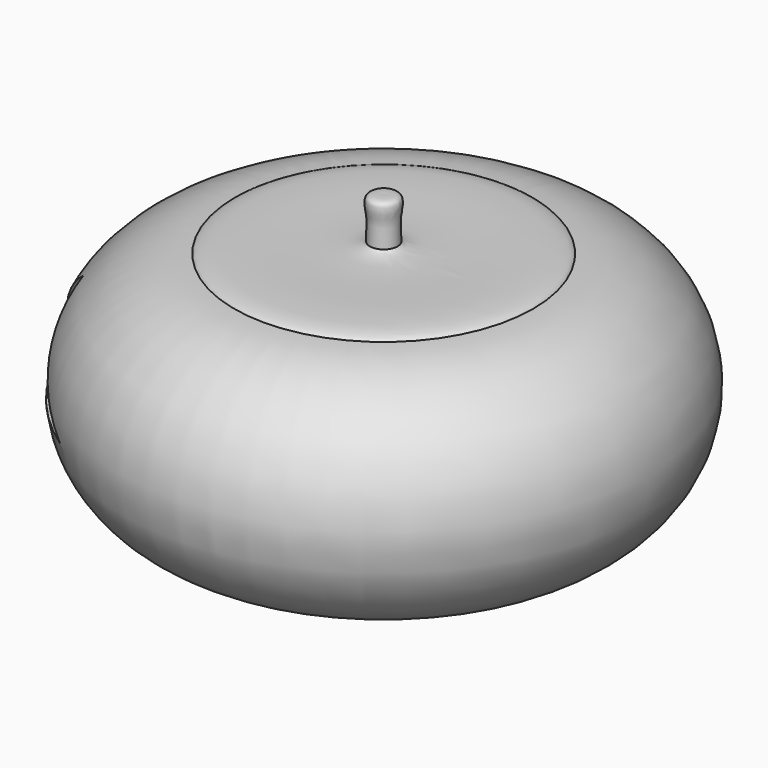
from build123d import *

# Parameters (mm, degrees)
F3_DEPTH = 127
F5_DEPTH = 50.8


with BuildPart() as f1:
    # F0 (on Front) → F1 (revolve)
    with BuildSketch(Plane.XZ):
        with BuildLine():
            Line((0, 50.2139851451), (0, 0))
            Line((0, 0), (26.6106016934, 0))
            ThreePointArc((26.6106016934, 0), (47.0614731312, 20.4508714378), (26.6106016934, 40.9017428756))
            add(Edge.make_bspline(
                [(26.6106016934, 40.9017428756), (25.0362083316, 43.3508008718), (4.0366263129, 40.3783917427), (2.4622329511, 42.827449739)],
                knots=[0, 0, 0, 0, 24.2250296148, 24.2250296148, 24.2250296148, 24.2250296148], degree=3))
            add(Edge.make_bspline(
                [(2.4622329511, 42.827449739), (2.3834565669, 44.1874180439), (2.2387711309, 46.6852174669), (3.1683927039, 50.3577171038), (1.0311299141, 50.2607616454), (0, 50.2139851451)],
                knots=[0, 0, 0, 0, 0.3821769351, 0.7019290997, 1, 1, 1, 1], degree=3))
        make_face()
    revolve(axis=Axis((0, 0, 15.449039638), (0, 0, -1)))

    # F2 (on Right) → F3 (cut)
    with BuildSketch(Plane.YZ):
        Polygon((-19.8585987091, 33.3854667842), (-38.5659709573, 18.131762743), (-12.0878415182, 18.131762743), align=None)
        Polygon((25.6147161126, 33.3854667842), (13.814676553, 18.131762743), (34.2488847673, 18.131762743), align=None)
    extrude(amount=-F3_DEPTH, mode=Mode.SUBTRACT)

    # F4 (on Right) → F5 (cut)
    with BuildSketch(Plane.YZ):
        with BuildLine():
            add(Edge.make_bspline(
                [(29.3561853468, 13.2390642539), (32.4553857355, 10.7557147244), (20.3203773982, -0.772276878), (-12.8022721153, -1.9722855331), (-31.1402784868, 15.2170824896), (23.0618669435, 18.2826208766), (29.3561853468, 13.2390642539)],
                knots=[0, 0, 0, 0, 0.1761748956, 0.4813955957, 0.6421977451, 1, 1, 1, 1], degree=3))
        make_face()
    extrude(amount=-F5_DEPTH, mode=Mode.SUBTRACT)


solid = f1.part
